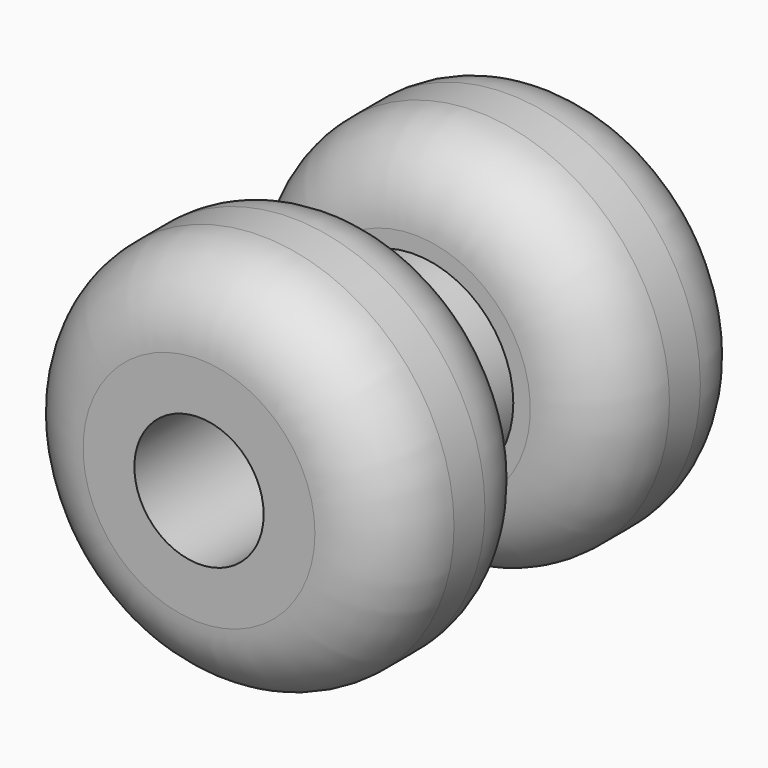
from build123d import *

# Parameters (mm, degrees)
F0_R     = 12.7
F1_DEPTH = 12.7
F2_R     = 5.08
F3_R     = 6.5
F4_DEPTH = 5
F5_R     = 12.7
F6_DEPTH = 12.7
F7_R     = 5.08
F9_D     = 8.5


with BuildPart() as f1:
    # F0 (on Front) → F1 (new body)
    with BuildSketch(Plane.XZ):
        Circle(F0_R)
    extrude(amount=F1_DEPTH)

    # F2
    f2_edges = [f1.edges().sort_by_distance(p)[0] for p in [
        (-12.7, 0, 0),
        (-12.7, -12.7, 0),
    ]]
    fillet(f2_edges, radius=F2_R)

    # F3 (on Front) → F4 (join)
    with BuildSketch(Plane.XZ):
        Circle(F3_R)
    extrude(amount=-F4_DEPTH)

    # F5 (on face) → F6 (join)
    with BuildSketch(Plane(origin=(0, 5, 0), x_dir=(-1, 0, 0), z_dir=(0, 1, 0))):
        Circle(F5_R)
    extrude(amount=F6_DEPTH)

    # F7
    f7_edges = [f1.edges().sort_by_distance(p)[0] for p in [
        (12.7, 17.7, 0),
        (12.7, 5, 0),
    ]]
    fillet(f7_edges, radius=F7_R)

    # F9 (through all)
    with Locations(Plane(origin=(0, 17.7, 0), x_dir=(-1, 0, 0), z_dir=(0, 1, 0))):
        with Locations((0, 0)):
            Hole(F9_D / 2)


solid = f1.part
